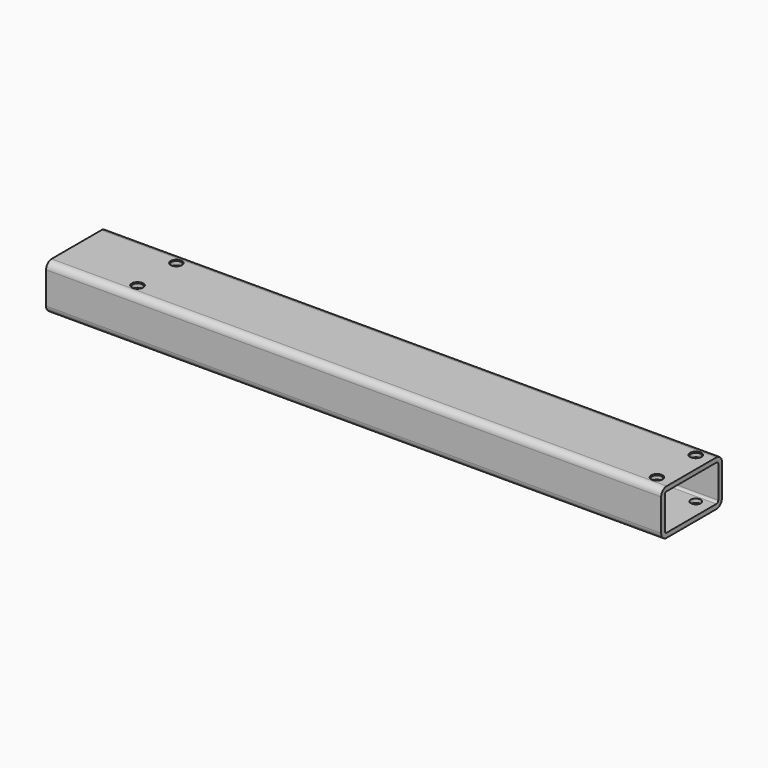
from build123d import *

# Parameters (mm, degrees)
F0_W     = 50
F0_H     = 30
F0_W_2   = 44
F0_H_2   = 24
F1_DEPTH = 181
F2_R     = 1.5
F3_R     = 4.5
F4_R     = 3.25
F5_DEPTH = 35
F6_SIZE  = 0.5
F7_DEPTH = 43


with BuildPart() as f1:
    # F0 (on Right) → F1 (new body, symmetric)
    with BuildSketch(Plane.YZ):
        Rectangle(F0_W, F0_H)
        Rectangle(F0_W_2, F0_H_2, mode=Mode.SUBTRACT)
    extrude(amount=F1_DEPTH, both=True)

    # F2
    f2_edges = [f1.edges().sort_by_distance(p)[0] for p in [
        (0, -22, -12),
        (0, -22, 12),
        (0, 22, -12),
        (0, 22, 12),
    ]]
    fillet(f2_edges, radius=F2_R)

    # F3
    f3_edges = [f1.edges().sort_by_distance(p)[0] for p in [
        (0, -25, 15),
        (0, -25, -15),
        (0, 25, -15),
        (0, 25, 15),
    ]]
    fillet(f3_edges, radius=F3_R)

    # F4 (on face) → F5 (cut)
    with BuildSketch(Plane.XY.offset(15)):
        with Locations((-171, 16)):
            Circle(F4_R)
        with Locations((-171, -16)):
            Circle(F4_R)
        with Locations((171, -16)):
            Circle(F4_R)
        with Locations((171, 16)):
            Circle(F4_R)
    extrude(amount=-F5_DEPTH, mode=Mode.SUBTRACT)

    # F6
    f6_edges = [f1.edges().sort_by_distance(p)[0] for p in [
        (-174.25, -16, 15),
        (-174.25, 16, 15),
        (167.75, -16, 15),
        (167.75, 16, 15),
        (167.75, 16, -15),
        (167.75, -16, -15),
        (-174.25, 16, -15),
        (-174.25, -16, -15),
    ]]
    chamfer(f6_edges, length=F6_SIZE)

    # F7 (add): a face of the model
    f7_faces = [f1.faces().sort_by_distance(p)[0] for p in [
        (-181, -24.4169048105, 0),
    ]]
    extrude(f7_faces, amount=F7_DEPTH)


solid = f1.part
